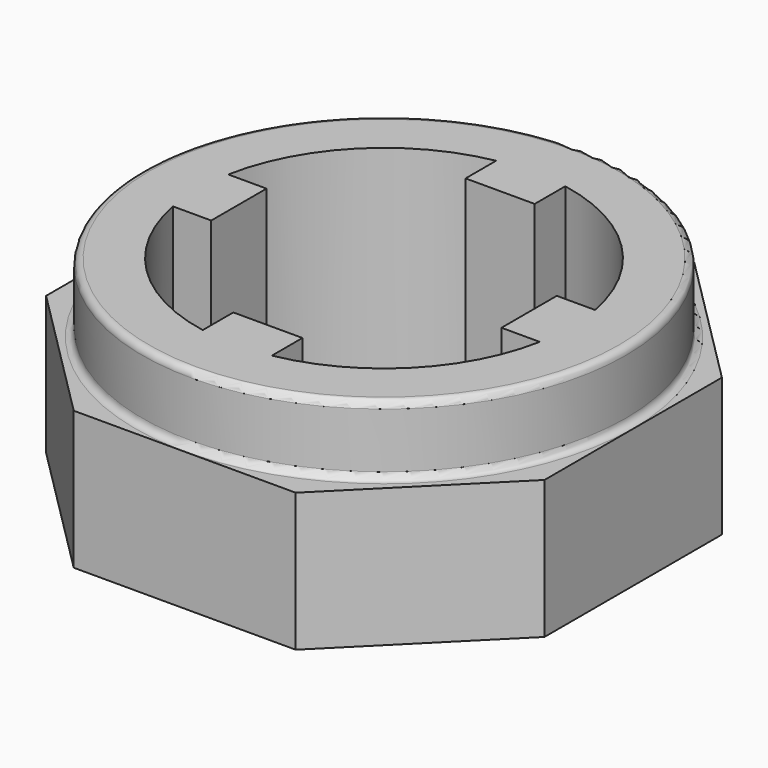
from build123d import *

# Parameters (mm, degrees)
F1_R     = 17.5
F1_R_2   = 13.5
F2_DEPTH = 15
F4_W     = 5
F4_H     = 3.8615576923
F5_DEPTH = 15
F6_COUNT = 4
F7_W     = 36.0574051738
F7_H     = 36.043446511
F7_R     = 13.5
F8_DEPTH = 10
F9_SIZE  = 10
F10_R    = 0.5
F11_R    = 0.5


with BuildPart() as f2:
    # F1 (on face) → F2 (new body)
    with BuildSketch(Plane.XY):
        Circle(F1_R)
        Circle(F1_R_2, mode=Mode.SUBTRACT)
    extrude(amount=F2_DEPTH)

    # F4 (on Top) → F5 (join)
    with BuildSketch(Plane.XY):
        with Locations((0, 12.4307788461)):
            Rectangle(F4_W, F4_H)
    extrude(amount=F5_DEPTH)

    # F6: F2 ×4 about axis
    f6_axis = Axis((0, 0, 0), (0, 0, 1))


with BuildPart() as f2_1:
    add(f2.part)
    for i in range(1, F6_COUNT):
        add(f2.part.rotate(f6_axis, i * 360 / F6_COUNT))

    # F7 (on face) → F8 (join)
    with BuildSketch(Plane.XY):
        Rectangle(F7_W, F7_H)
        Circle(F7_R, mode=Mode.SUBTRACT)
    extrude(amount=F8_DEPTH)

    # F9
    f9_edges = [f2_1.edges().sort_by_distance(p)[0] for p in [
        (18.028703, 18.021723, 5),
        (-18.028703, 18.021723, 5),
        (-18.028703, -18.021723, 5),
        (18.028703, -18.021723, 5),
    ]]
    chamfer(f9_edges, length=F9_SIZE)

    # F10
    f10_edges = [f2_1.edges().sort_by_distance(p)[0] for p in [
        (-17.5, 0, 10),
    ]]
    fillet(f10_edges, radius=F10_R)

    # F11
    f11_edges = [f2_1.edges().sort_by_distance(p)[0] for p in [
        (-17.5, 0, 15),
    ]]
    fillet(f11_edges, radius=F11_R)


solid = f2_1.part
